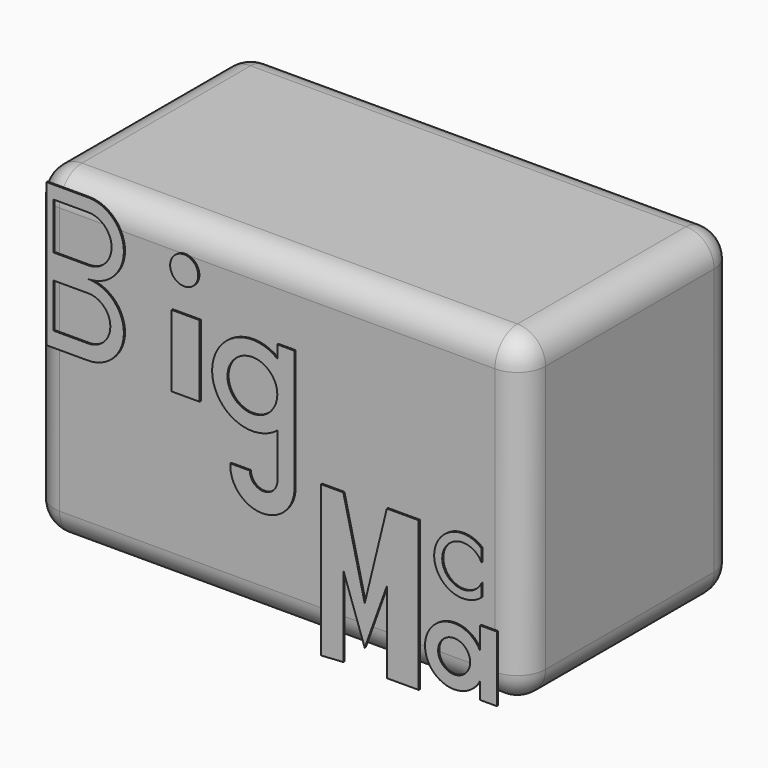
from build123d import *

# Parameters (mm, degrees)
F0_W     = 88.9
F0_H     = 58.421202
F1_DEPTH = 48.26
F2_R     = 5.08
F3_W     = 5.08
F3_H     = 12.982895
F3_R     = 2.54
F3_R_2   = 4.507617
F3_R_3   = 2.893788
F4_DEPTH = 0.254


with BuildPart() as f1:
    # F0 (on Front) → F1 (new body)
    with BuildSketch(Plane.XZ):
        with Locations((-0.224516, -1.688525)):
            Rectangle(F0_W, F0_H)
    extrude(amount=F1_DEPTH)

    # F2
    f2_edges = [f1.edges().sort_by_distance(p)[0] for p in [
        (44.225484, -48.26, -1.688525),
        (-0.224516, -48.26, -30.899126),
        (44.225484, -24.13, -30.899126),
        (44.225484, 0, -1.688525),
        (44.225484, -24.13, 27.522076),
        (-0.224516, 0, 27.522076),
        (-0.224516, -48.26, 27.522076),
        (-44.674516, -24.13, 27.522076),
        (-44.674516, -24.13, -30.899126),
        (-44.674516, 0, -1.688525),
        (-0.224516, 0, -30.899126),
        (-44.674516, -48.26, -1.688525),
    ]]
    fillet(f2_edges, radius=F2_R)

    # F3 (on face) → F4 (join)
    with BuildSketch(Plane.XZ.offset(48.26)):
        with BuildLine():
            Line((-34.246631, 25.965789), (-41.732468, 25.965789))
            Line((-41.732468, 25.965789), (-41.732468, 0))
            Line((-41.732468, 0), (-34.246631, 0))
            ThreePointArc((-34.246631, 0), (-27.755184, 6.491447), (-34.246631, 12.982895))
            ThreePointArc((-34.246631, 12.982895), (-27.755184, 19.474342), (-34.246631, 25.965789))
        make_face()
        with BuildLine():
            Line((-40.462468, 2.725626), (-40.462468, 10.715656))
            Line((-40.462468, 10.715656), (-34.199979, 10.715656))
            ThreePointArc((-34.199979, 10.715656), (-30.204964, 6.720641), (-34.199979, 2.725626))
            Line((-34.199979, 2.725626), (-40.462468, 2.725626))
        make_face(mode=Mode.SUBTRACT)
        with BuildLine():
            Line((-40.462468, 15.164651), (-40.462468, 23.60866))
            Line((-40.462468, 23.60866), (-34.199979, 23.60866))
            ThreePointArc((-34.199979, 23.60866), (-29.977974, 19.386656), (-34.199979, 15.164651))
            Line((-34.199979, 15.164651), (-40.462468, 15.164651))
        make_face(mode=Mode.SUBTRACT)
        with Locations((-16.57911, 6.491447)):
            Rectangle(F3_W, F3_H)
        with Locations((-16.847532, 20.002501)):
            Circle(F3_R)
        with BuildLine():
            Line((3.091869, 13.692563), (0, 13.692563))
            Line((0, 13.692563), (0, 11.420986))
            ThreePointArc((0, 11.420986), (-11.800197, 5.710493), (0, 0))
            Line((0, 0), (0, -4.98485))
            Line((0, -4.98485), (0, -8.01362))
            ThreePointArc((0, -8.01362), (-2.492425, -10.506046), (-4.984851, -8.01362))
            Line((-4.984851, -8.01362), (-8.518415, -8.01362))
            ThreePointArc((-8.518415, -8.01362), (-2.842245, -14.072531), (3.091869, -8.266018))
            Line((3.091869, -8.266018), (3.091869, -5.489645))
            Line((3.091869, -5.489645), (3.091869, -2.965671))
            Line((3.091869, -2.965671), (3.091869, 13.692563))
        make_face()
        with Locations((-4.518354, 5.710493)):
            Circle(F3_R_2, mode=Mode.SUBTRACT)
        Polygon((7.887421, -5.994441), (7.887421, -33.247489), (11.925781, -32.99509), (11.925781, -18.356085), (15.796138, -29.466899), (19.794538, -18.356085), (19.794538, -32.99509), (25.555243, -32.99509), (25.555243, -5.994441), (19.794538, -5.994441), (15.796138, -22.386515), (11.925781, -5.994441), align=None)
        with BuildLine():
            Line((36.660735, -19.119108), (36.660735, -23.157468))
            ThreePointArc((36.660735, -23.157468), (26.694659, -25.555245), (36.660735, -27.953021))
            Line((36.660735, -27.953021), (36.660735, -30.981792))
            Line((36.660735, -30.981792), (39.689504, -30.981792))
            Line((39.689504, -30.981792), (39.689504, -19.119108))
            Line((39.689504, -19.119108), (36.660735, -19.119108))
        make_face()
        with Locations((31.966142, -25.555245)):
            Circle(F3_R_3, mode=Mode.SUBTRACT)
        with BuildLine():
            Line((36.91313, -9.02321), (36.91313, -6.751633))
            ThreePointArc((36.91313, -6.751633), (28.357434, -10.663793), (36.91313, -14.575954))
            Line((36.91313, -14.575954), (36.91313, -12.304377))
            ThreePointArc((36.91313, -12.304377), (29.806476, -10.663793), (36.91313, -9.02321))
        make_face()
    extrude(amount=F4_DEPTH)


solid = f1.part
